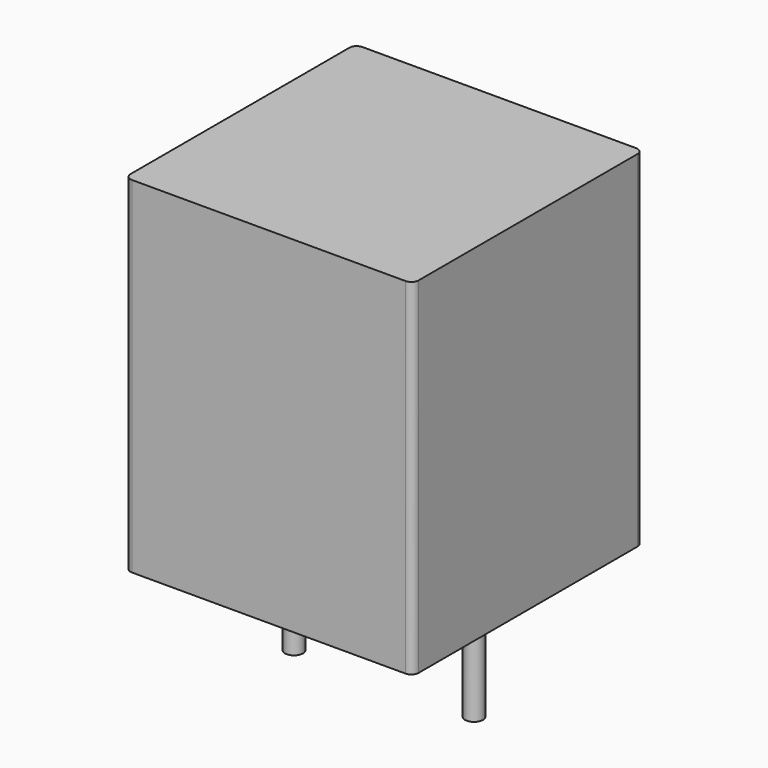
from build123d import *

# Parameters (mm, degrees)
SKETCH001_R  = 0.25
PAD001_DEPTH = 3.5
SKETCH_W     = 8
SKETCH_H     = 8
PAD_DEPTH    = 9.6
FILLET_R     = 0.2


with BuildPart() as pad001:
    # Sketch001 → Pad001 (new body)
    with BuildSketch(Plane.XY.offset(0.5)):
        Circle(SKETCH001_R)
        with Locations((5, 0)):
            Circle(SKETCH001_R)
    extrude(amount=-PAD001_DEPTH)


with BuildPart() as fillet_body:
    # Sketch → Pad (new body)
    with BuildSketch(Plane.XY.offset(0.1)):
        with Locations((2.5, 0)):
            Rectangle(SKETCH_W, SKETCH_H)
    extrude(amount=PAD_DEPTH)

    # Fillet
    fillet_edges = [fillet_body.edges().sort_by_distance(p)[0] for p in [
        (6.5, -4, 4.9),
        (6.5, 4, 4.9),
        (-1.5, -4, 4.9),
        (-1.5, 4, 4.9),
    ]]
    fillet(fillet_edges, radius=FILLET_R)


solid = Compound([pad001.part, fillet_body.part])
